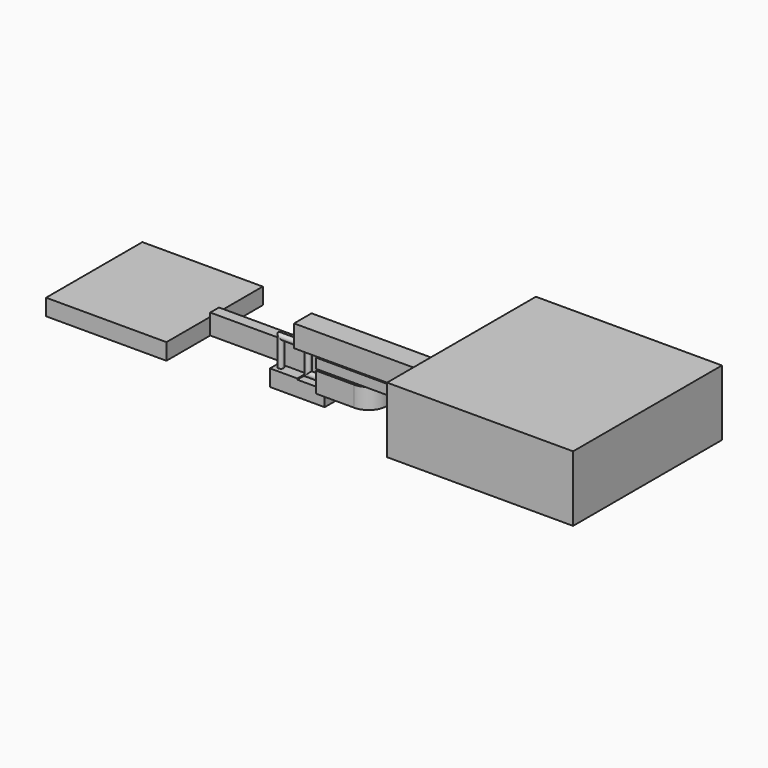
from build123d import *

# Parameters (mm, degrees)
F2_W      = 76.2
F2_H      = 5.08
F3_DEPTH  = 9.398
F5_W      = 38.1
F5_H      = 10.16
F5_W_2    = 4.6505859673
F5_H_2    = 5.3134663665
F11_DEPTH = 4.572
F7_W      = 10.16
F7_H      = 10.16
F7_R      = 1.27
F7_W_2    = 63.5
F12_DEPTH = 10.16
F8_R      = 1.27
F2_R      = 1.27
F0_W      = 12.7
F0_H      = 5.08
F19_DEPTH = 7.62
F20_DEPTH = 7.112
F0_W_2    = 6.35
F0_H_2    = 1.524
F21_DEPTH = 6.35
F22_DEPTH = 7.62
F17_W     = 0.508
F17_H     = 1.524
F17_H_2   = 1.27
F23_DEPTH = 2.54
F24_W     = 86.36
F24_H     = 86.36
F25_DEPTH = 30.48
F26_W     = 55.88
F26_H     = 55.88
F27_DEPTH = 7.62
F28_DEPTH = 5.08


with BuildPart() as f3:
    # F2 (on offset) → F3 (new body)
    with BuildSketch(Plane.XY.offset(7.62)):
        with Locations((-20.32, 4.064)):
            Rectangle(F2_W, F2_H)
        Polygon((17.78, 0), (0, 0), (0, -5.08), (0, -10.16), (17.78, -10.16), (17.78, -5.08), align=None)
        with BuildLine():
            Line((17.78, 1.524), (17.78, 0))
            Line((17.78, 0), (17.78, -5.08))
            Line((17.78, -5.08), (17.78, -10.16))
            ThreePointArc((17.78, -10.16), (26.162, -1.778), (17.78, 6.604))
            Line((17.78, 6.604), (17.78, 1.524))
        make_face()
    extrude(amount=F3_DEPTH)



with BuildPart() as f11:
    # F5 (on offset) → F11 (new body)
    with BuildSketch(Plane.XY.offset(17.78)):
        with Locations((19.05, -5.08)):
            Rectangle(F5_W, F5_H)
        with Locations((25.4, -5.08)):
            Rectangle(F5_W_2, F5_H_2, mode=Mode.SUBTRACT)
    extrude(amount=F11_DEPTH)

    # F15: sweep along a path in F14
    with BuildLine(Plane.XZ.offset(1.905)) as f15_path:
        Line((0, 20.32), (-22.86, 20.32))
        Line((-22.86, 20.32), (-22.86, 7.62))
    # F8 (on Right) + F2 (on offset) → F15 (sweep)
    with BuildSketch(Plane.YZ):
        with Locations((-1.905, 20.32)):
            Circle(F8_R)
    with BuildSketch(Plane.XY.offset(7.62)):
        with Locations((-22.86, -1.905)):
            Circle(F2_R)
    sweep(path=f15_path.line, transition=Transition.RIGHT)


with BuildPart() as f12:
    # F7 (on offset) → F12 (new body)
    with BuildSketch(Plane.XY.offset(22.86)):
        with Locations((-5.08, -5.08)):
            Rectangle(F7_W, F7_H)
        with Locations((-5.08, -8.255)):
            Circle(F7_R, mode=Mode.SUBTRACT)
        with Locations((31.75, -5.08)):
            Rectangle(F7_W_2, F7_H)
        with Locations((-5.08, -8.255)):
            Circle(F7_R)
    extrude(amount=F12_DEPTH)


with BuildPart() as f3_1:
    add(f3.part)

    add(f12.part)  # F18 merges F12
    # F18: sweep along a path in F10
    with BuildLine(Plane.XZ.offset(8.255)) as f18_path:
        Line((-5.08, 22.86), (-5.08, 13.335))
        Line((-5.08, 13.335), (0, 13.335))
    # F8 (on Right) + F7 (on offset) → F18 (sweep)
    with BuildSketch(Plane.YZ):
        with Locations((-8.3337165415, 13.335)):
            Circle(F8_R)
    with BuildSketch(Plane.XY.offset(22.86)):
        with Locations((-5.08, -8.255)):
            Circle(F7_R)
    sweep(path=f18_path.line, transition=Transition.RIGHT)

    # F24 (on offset) → F25 (join)
    with BuildSketch(Plane.XY.offset(17.78)):
        with Locations((106.68, -5.08)):
            Rectangle(F24_W, F24_H)
    extrude(amount=F25_DEPTH)


    add(f11.part)  # F27 merges F11


with BuildPart() as f19:
    # F0 (on Top) → F19 (new body)
    with BuildSketch(Plane.XY):
        with Locations((-19.05, -2.54)):
            Rectangle(F0_W, F0_H)
    extrude(amount=F19_DEPTH)

    # F0 (on Top) → F20 (join)
    with BuildSketch(Plane.XY):
        Polygon((0, -5.08), (0, 0), (-6.35, 0), (-12.7, 0), (-12.7, -5.08), align=None)
    extrude(amount=F20_DEPTH)

    # F0 (on Top) → F21 (join)
    with BuildSketch(Plane.XY):
        with Locations((-3.175, 0.762)):
            Rectangle(F0_W_2, F0_H_2)
        Polygon((-6.35, 1.524), (0, 1.524), (0, 6.604), (-12.7, 6.604), (-12.7, 1.524), align=None)
    extrude(amount=F21_DEPTH)


with BuildPart() as f22:
    # F0 (on Top) → F22 (new body)
    with BuildSketch(Plane.XY):
        with Locations((-19.05, 4.064)):
            Rectangle(F0_W, F0_H)
    extrude(amount=F22_DEPTH)

    # F17 (on offset) → F23 (cut, symmetric)
    with BuildSketch(Plane.XZ.offset(-4.064)):
        with Locations((-12.954, 5.842)):
            Rectangle(F17_W, F17_H)
        with Locations((-25.146, 0.635)):
            Rectangle(F17_W, F17_H_2)
        with Locations((-19.05, 3.175)):
            Rectangle(F17_W, F17_H_2)
        with Locations((-16.002, 4.445)):
            Rectangle(F17_W, F17_H_2)
        with Locations((-22.098, 1.905)):
            Rectangle(F17_W, F17_H_2)
    extrude(amount=F23_DEPTH, both=True, mode=Mode.SUBTRACT)


with BuildPart() as f3_2:
    add(f3_1.part)

    add(f19.part)  # F27 merges F19

    add(f22.part)  # F27 merges F22
    # F26 (on offset) → F27 (join)
    with BuildSketch(Plane.XY.offset(7.62)):
        with Locations((-86.36, 4.064)):
            Rectangle(F26_W, F26_H)
    extrude(amount=F27_DEPTH)

    # F5 (on offset) → F28 (join)
    with BuildSketch(Plane.XY.offset(17.78)):
        with Locations((25.4, -5.08)):
            Rectangle(F5_W_2, F5_H_2)
    extrude(amount=F28_DEPTH)


solid = f3_2.part
